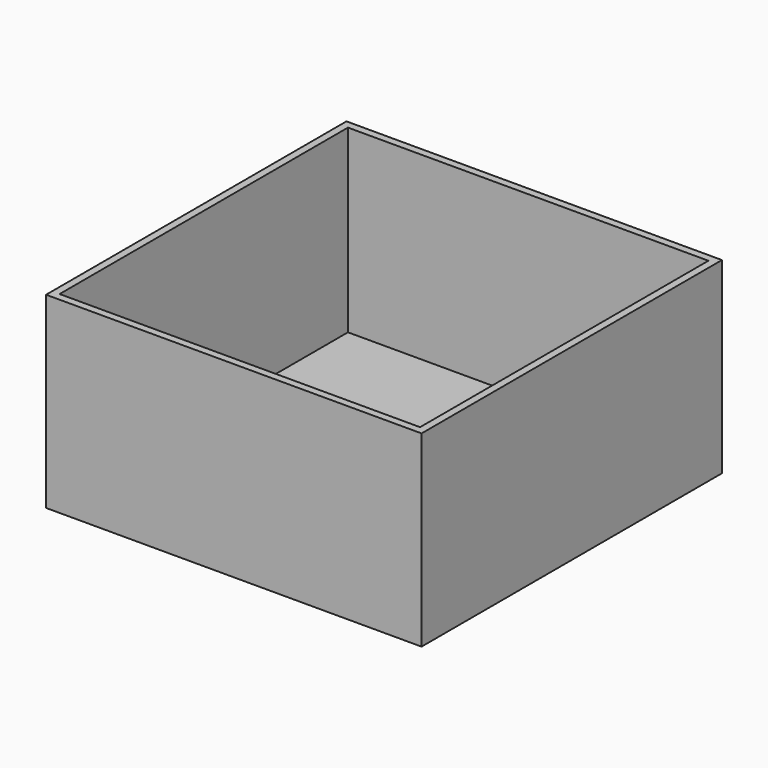
from build123d import *

# Parameters (mm, degrees)
F1_W     = 50
F1_H     = 50
F2_DEPTH = 25
F3_T     = -1


with BuildPart() as f2:
    # F1 (on face) → F2 (new body)
    with BuildSketch(Plane.XY):
        Rectangle(F1_W, F1_H)
    extrude(amount=F2_DEPTH)

    # F3
    f3_openings = [f2.faces().sort_by_distance(p)[0] for p in [
        (0, 0, 25),
    ]]
    offset(amount=F3_T, openings=f3_openings)


solid = f2.part
